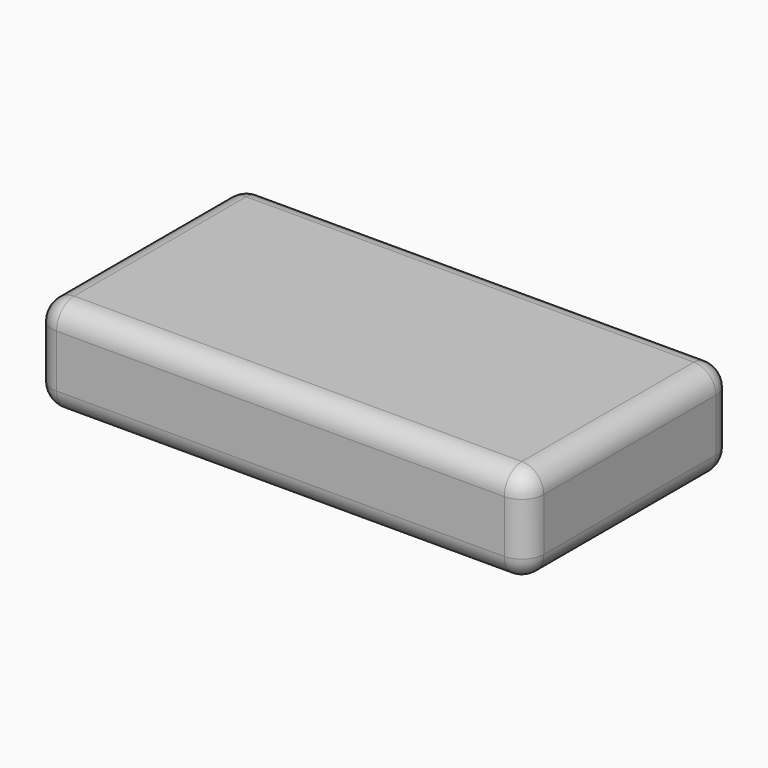
from build123d import *

# Parameters (mm, degrees)
F1_DEPTH = 55.88
F2_R     = 12.7


with BuildPart() as f1:
    # F0 (on Top) → F1 (new body)
    with BuildSketch(Plane.XY):
        with BuildLine():
            Line((-66.4221714592, 54.7436210916), (-325.5021714592, 54.7436210916))
            ThreePointArc((-325.5021714592, 54.7436210916), (-334.4824275803, 51.0238772127), (-338.2021714592, 42.0436210916))
            Line((-338.2021714592, 42.0436210916), (-338.2021714592, -82.4163789084))
            ThreePointArc((-338.2021714592, -82.4163789084), (-334.4824275803, -91.3966350295), (-325.5021714592, -95.1163789084))
            Line((-325.5021714592, -95.1163789084), (-66.4221714592, -95.1163789084))
            ThreePointArc((-66.4221714592, -95.1163789084), (-57.4419153381, -91.3966350295), (-53.7221714592, -82.4163789084))
            Line((-53.7221714592, -82.4163789084), (-53.7221714592, 42.0436210916))
            ThreePointArc((-53.7221714592, 42.0436210916), (-57.4419153381, 51.0238772127), (-66.4221714592, 54.7436210916))
        make_face()
    extrude(amount=F1_DEPTH)

    # F2
    f2_edges = [f1.edges().sort_by_distance(p)[0] for p in [
        (-195.962171, 54.743621, 55.88),
        (-334.482428, 51.023877, 55.88),
        (-338.202171, -20.186379, 55.88),
        (-334.482428, -91.396635, 55.88),
        (-195.962171, -95.116379, 55.88),
        (-57.441915, -91.396635, 55.88),
        (-53.722171, -20.186379, 55.88),
        (-57.441915, 51.023877, 55.88),
        (-325.502171, -95.116379, 27.94),
        (-66.422171, -95.116379, 27.94),
        (-195.962171, -95.116379, 0),
        (-53.722171, -82.416379, 27.94),
        (-57.441915, -91.396635, 0),
        (-53.722171, 42.043621, 27.94),
        (-53.722171, -20.186379, 0),
        (-66.422171, 54.743621, 27.94),
        (-57.441915, 51.023877, 0),
        (-195.962171, 54.743621, 0),
        (-334.482428, 51.023877, 0),
        (-338.202171, -20.186379, 0),
        (-334.482428, -91.396635, 0),
    ]]
    fillet(f2_edges, radius=F2_R)


solid = f1.part
